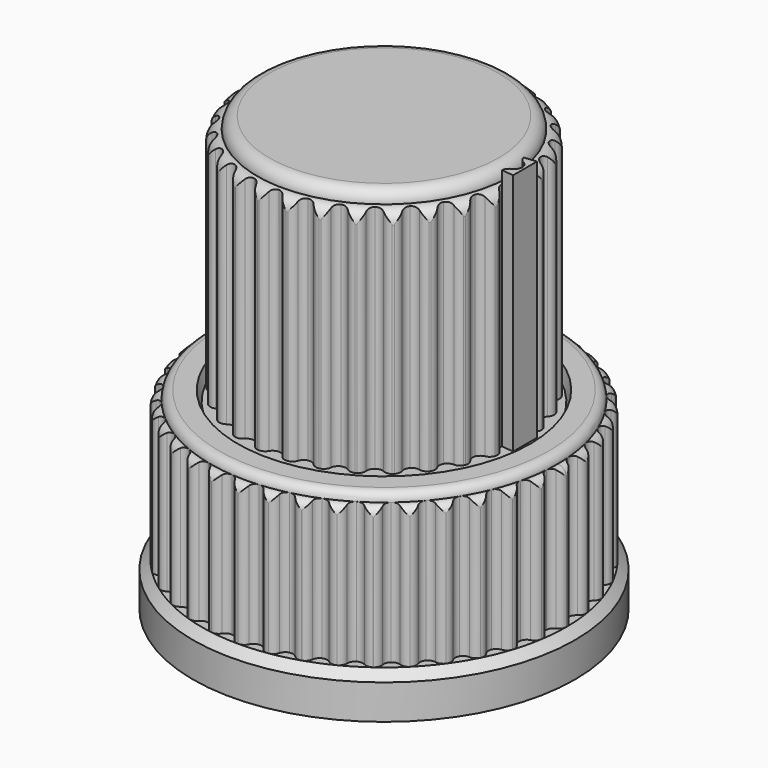
from build123d import *

# Parameters (mm, degrees)
PAD_DEPTH         = 10
ARRAY_COUNT       = 40
PAD002_DEPTH      = 0.7
PAD002_DEPTH_BACK = 0.7
PAD001_DEPTH      = 14
ARRAY001_COUNT    = 30
SKETCH005_W       = 2
SKETCH005_H       = 5.5
PAD003_DEPTH      = 2
PAD003_DEPTH_BACK = 2
PAD004_DEPTH      = 14


with BuildPart() as array_outer_grip:
    # Sketch002 → Pad (new body)
    with BuildSketch(Plane.XY.offset(2.5)):
        with BuildLine():
            ThreePointArc((10.234109, -0.40487), (10.500027, 0.004953), (10.234086, 0.41476))
            ThreePointArc((9.968787, 0.78949), (10.049881, 0.565626), (10.234086, 0.41476))
            Line((9.968787, 0.78949), (10.666602, 0.844754))
            Line((10.666602, 0.844754), (10.666602, -0.834205))
            Line((10.666602, -0.834205), (9.969558, -0.779692))
            ThreePointArc((10.234109, -0.40487), (10.050313, -0.555917), (9.969558, -0.779692))
        make_face()
    extrude(amount=PAD_DEPTH)

    # Array: Array (outer grip) ×40 about axis
    array_axis = Axis((0, 0, 0), (0, 0, 1))


with BuildPart() as array_outer_grip_1:
    add(array_outer_grip.part)
    for i in range(1, ARRAY_COUNT):
        add(array_outer_grip.part.rotate(array_axis, i * 360 / ARRAY_COUNT))


with BuildPart() as pad_outer_notch:
    # Sketch004 → Pad002 (new body, two sides)
    with BuildSketch(Plane.XZ) as pad002_sk:
        Polygon((2.7, 3.4), (2.7, 7), (1.875, 7), (1.875, 4.225), align=None)
        Polygon((-2.7, 3.4), (-2.7, 7), (-1.875, 7), (-1.875, 4.225), align=None)
    extrude(amount=PAD002_DEPTH)
    extrude(pad002_sk.sketch, amount=-PAD002_DEPTH_BACK)


with BuildPart() as cut_outer:
    # Sketch → Revolution (revolve)
    with BuildSketch(Plane.XZ):
        with BuildLine():
            Line((2.7, 0), (2.7, 7))
            Line((2.7, 7), (2, 7))
            Line((2, 7), (2, 10.5))
            Line((8.2, 10.5), (2, 10.5))
            Line((8.418382, 11.1), (8.2, 10.5))
            Line((8.418382, 11.1), (9.5, 11.1))
            ThreePointArc((10, 10.6), (9.853553, 10.953553), (9.5, 11.1))
            ThreePointArc((10.5, 10.1), (10.353553, 10.453553), (10, 10.6))
            Line((10.5, 2.5), (10.5, 10.1))
            Line((11, 2), (10.5, 2.5))
            Line((11, 0), (11, 2))
            Line((2.7, 0), (11, 0))
        make_face()
    revolve(axis=Axis((0, 0, 0), (0, 0, 1)))

    # Fusion: union Pad (outer notch)
    add(pad_outer_notch.part)

    # Cut: cut Array (outer grip)
    add(array_outer_grip_1.part, mode=Mode.SUBTRACT)


with BuildPart() as array_inner_grip:
    # Sketch003 → Pad001 (new body)
    with BuildSketch(Plane.XY.offset(11)):
        with BuildLine():
            ThreePointArc((7.726777, -0.464052), (8.002467, -0.050122), (7.731983, 0.367228))
            ThreePointArc((7.463678, 0.737231), (7.547729, 0.515899), (7.731983, 0.367228))
            Line((7.463678, 0.737231), (8.160288, 0.806039))
            Line((8.160288, 0.806039), (8.160288, -0.90939))
            Line((8.160288, -0.90939), (7.453858, -0.830665))
            ThreePointArc((7.726777, -0.464052), (7.540675, -0.610403), (7.453858, -0.830665))
        make_face()
    extrude(amount=PAD001_DEPTH)

    # Array001: Array (inner grip) ×30 about axis
    array001_axis = Axis((0, 0, 0), (0, 0, 1))


with BuildPart() as array_inner_grip_1:
    add(array_inner_grip.part)
    for i in range(1, ARRAY001_COUNT):
        add(array_inner_grip.part.rotate(array001_axis, i * 360 / ARRAY001_COUNT))


with BuildPart() as pad_inner_notch:
    # Sketch005 → Pad003 (new body, two sides)
    with BuildSketch(Plane.XZ) as pad003_sk:
        with Locations((1.9, 13.75)):
            Rectangle(SKETCH005_W, SKETCH005_H)
    extrude(amount=PAD003_DEPTH)
    extrude(pad003_sk.sketch, amount=-PAD003_DEPTH_BACK)


with BuildPart() as cut_inner:
    # Sketch001 → Revolution001 (revolve)
    with BuildSketch(Plane.XZ):
        with BuildLine():
            Line((1.975, 11), (8, 11))
            Line((8, 11), (8, 23.6))
            ThreePointArc((8, 23.6), (7.794975, 24.094975), (7.3, 24.3))
            ThreePointArc((7.3, 24.3), (7.094975, 24.794975), (6.6, 25))
            Line((6.6, 25), (0, 25))
            Line((0, 25), (0, 16.5))
            Line((0, 16.5), (1.975, 16.5))
            Line((1.975, 16.5), (1.975, 11))
        make_face()
    revolve(axis=Axis((0, 0, 0), (0, 0, 1)))

    # Fusion001: union Pad (inner notch)
    add(pad_inner_notch.part)

    # Cut001: cut Array (inner grip)
    add(array_inner_grip_1.part, mode=Mode.SUBTRACT)


with BuildPart() as pad004:
    # Sketch006 → Pad004 (new body)
    with BuildSketch(Plane.XY.offset(11)):
        with BuildLine():
            ThreePointArc((7.726777, -0.464052), (8.002467, -0.050122), (7.731983, 0.367228))
            ThreePointArc((7.463678, 0.737231), (7.547729, 0.515899), (7.731983, 0.367228))
            Line((7.463678, 0.737231), (8.160288, 0.806039))
            Line((8.160288, 0.806039), (8.160288, -0.90939))
            Line((8.160288, -0.90939), (7.453858, -0.830665))
            ThreePointArc((7.726777, -0.464052), (7.540675, -0.610403), (7.453858, -0.830665))
        make_face()
    extrude(amount=PAD004_DEPTH)


solid = Compound([cut_outer.part, cut_inner.part, pad004.part])
